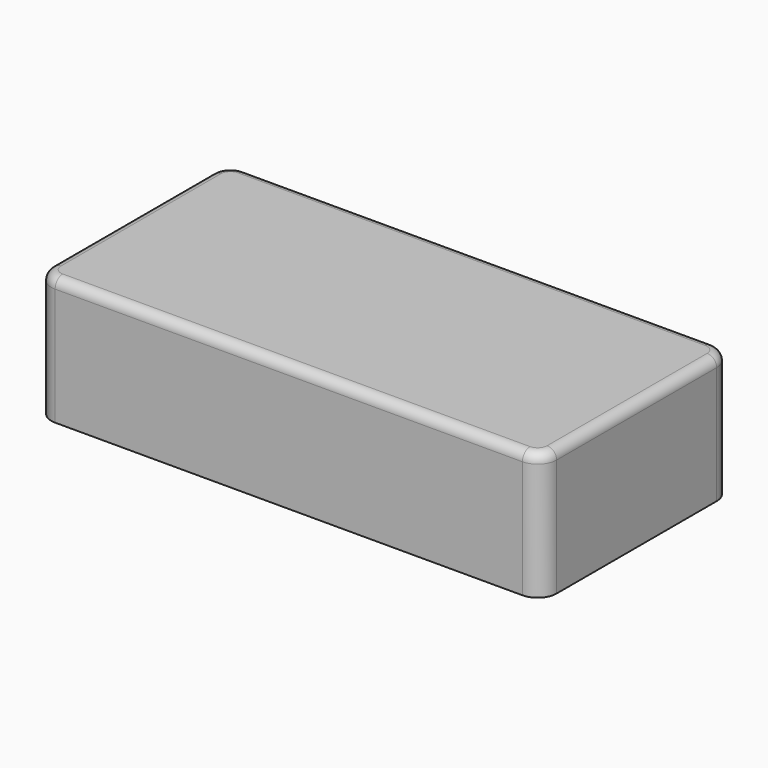
from build123d import *

# Parameters (mm, degrees)
PAD_DEPTH    = 20.07
POCKET_DEPTH = 18.42
FILLET_R     = 1.5


with BuildPart() as part:
    # Sketch → Pad (new body)
    with BuildSketch(Plane.XY):
        with BuildLine():
            Line((18.834122, 40.018788), (92.644122, 40.018788))
            ThreePointArc((95.644122, 37.018788), (94.765442, 39.140108), (92.644122, 40.018788))
            Line((95.644122, 37.018788), (95.644122, 5.428788))
            ThreePointArc((92.644122, 2.428788), (94.765442, 3.307467), (95.644122, 5.428788))
            Line((92.644122, 2.428788), (18.834122, 2.428788))
            ThreePointArc((15.834122, 5.428788), (16.712801, 3.307467), (18.834122, 2.428788))
            Line((15.834122, 5.428788), (15.834122, 37.018788))
            ThreePointArc((18.834122, 40.018788), (16.712801, 39.140108), (15.834122, 37.018788))
        make_face()
    extrude(amount=PAD_DEPTH)

    # Sketch001 (on Face9 of Pad) → Pocket (cut)
    with BuildSketch(Plane(origin=(0, 0, 0), x_dir=(1, 0, 0), z_dir=(0, 0, -1))):
        with BuildLine():
            Line((19.344122, -2.933788), (92.134122, -2.933788))
            ThreePointArc((95.134122, -5.933788), (94.255442, -3.812467), (92.134122, -2.933788))
            Line((95.134122, -5.933788), (95.134122, -36.513788))
            ThreePointArc((92.134122, -39.513788), (94.255442, -38.635108), (95.134122, -36.513788))
            Line((92.134122, -39.513788), (19.344122, -39.513788))
            ThreePointArc((16.344122, -36.513788), (17.222801, -38.635108), (19.344122, -39.513788))
            Line((16.344122, -36.513788), (16.344122, -5.933788))
            ThreePointArc((19.344122, -2.933788), (17.222801, -3.812467), (16.344122, -5.933788))
        make_face()
    extrude(amount=-POCKET_DEPTH, mode=Mode.SUBTRACT)

    # Fillet
    fillet_edges = [part.edges().sort_by_distance(p)[0] for p in [
        (15.834122, 21.223788, 20.07),
        (16.712801, 39.140108, 20.07),
        (55.739122, 40.018788, 20.07),
        (94.765442, 39.140108, 20.07),
        (95.644122, 21.223788, 20.07),
        (94.765442, 3.307467, 20.07),
        (55.739122, 2.428788, 20.07),
        (16.712801, 3.307467, 20.07),
    ]]
    fillet(fillet_edges, radius=FILLET_R)


solid = part.part
